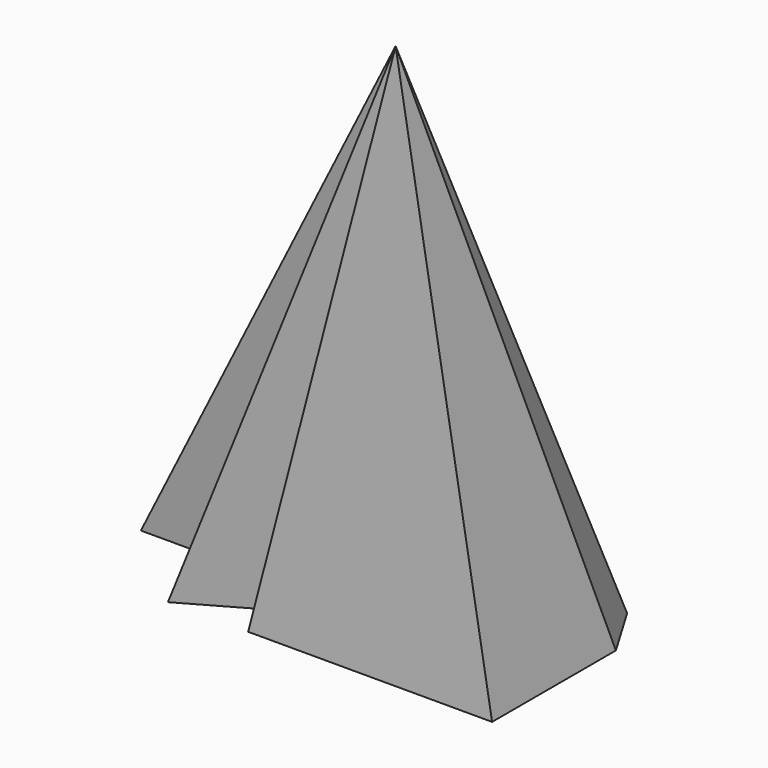
from build123d import *


with BuildPart() as f3:
    # F0 (on Top) → F3 section 0
    with BuildSketch(Plane.XY, mode=Mode.PRIVATE) as f3_s0:
        Polygon((-40.394049, 47.429677), (-57.044461, 26.843717), (-56.741726, 14.431596), (-40.394049, 14.431596), (-40.394049, 0), (-26.165519, 8.074167), (-26.165519, 0), (17.125543, 0), (17.125543, 27.449189), (11.373584, 37.1367), (5.318892, 27.449189), (-26.165519, 27.449189), align=None)
    loft([f3_s0.sketch, Vertex(0, 0, 100)])


solid = f3.part
